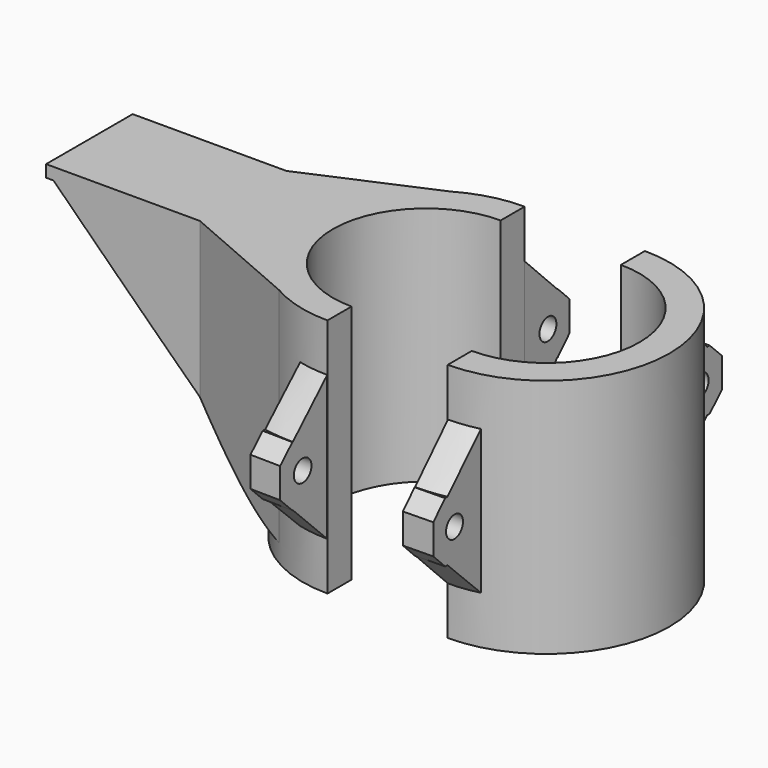
from build123d import *

# Parameters (mm, degrees)
CYLINDER002_R              = 1.8
CYLINDER002_DEPTH          = 10
CYLINDER002_PITCH_ANGLE    = 90
BOX001_W                   = 5
BOX001_H                   = 12
BOX001_DEPTH               = 10
BOX001_PLACEMENT_ANGLE     = 1
CHAMFER001_SIZE            = 2.5
CHAMFER001_PLACEMENT_ANGLE = 180
CHAMFER_SIZE               = 2.5
BOX_W                      = 61
BOX_H                      = 61
BOX_DEPTH                  = 50
CYLINDER001_R              = 15.5
CYLINDER001_DEPTH          = 50
CYLINDER_R                 = 20.5
CYLINDER_DEPTH             = 40
CHAMFER003_SIZE            = 7
CHAMFER003_PLACEMENT_ANGLE = 180
BOX002_W                   = 38
BOX002_H                   = 18
BOX002_DEPTH               = 2
CHAMFER002_SIZE            = 7
CHAMFER004_SIZE            = 35
CHAMFER005_SIZE            = 12


with BuildPart() as cilindro002:
    # Cylinder002 → Cylinder002 (new body)
    with BuildSketch(Plane.XY):
        Circle(CYLINDER002_R)
    extrude(amount=CYLINDER002_DEPTH)


with BuildPart() as cilindro002_1:
    # Cylinder002 pitch: moved
    add(cilindro002.part.rotate(Axis((0, 0, 0), (0, 1, 0)), CYLINDER002_PITCH_ANGLE))


with BuildPart() as cilindro002_2:
    # Cylinder002 placement: moved
    add(cilindro002_1.part.moved(Location((-7, 25.5, 20))))


with BuildPart() as cut002:
    # Box001 → Box001 (new body)
    with BuildSketch(Plane.XY):
        with Locations((2.5, 6)):
            Rectangle(BOX001_W, BOX001_H)
    extrude(amount=BOX001_DEPTH)


with BuildPart() as cut002_1:
    # Box001 placement: moved
    add(cut002.part.moved(Location((-5, 18, 15))).rotate(Axis((-5, 18, 15), (0, 0, 1)), BOX001_PLACEMENT_ANGLE))

    # Cut002: cut Cilindro002
    add(cilindro002_2.part, mode=Mode.SUBTRACT)


with BuildPart() as chamfer001:
    # Chamfer001 base: copy of Cut002
    add(cut002_1.part)

    # Chamfer001
    chamfer001_edges = [chamfer001.edges().sort_by_distance(p)[0] for p in [
        (-2.70981, 30.041803, 25),
        (-2.70981, 30.041803, 15),
    ]]
    chamfer(chamfer001_edges, length=CHAMFER001_SIZE)


with BuildPart() as chamfer001_1:
    # Chamfer001 placement: moved
    add(chamfer001.part.moved(Location((0, 0, 40))).rotate(Axis((0, 0, 40), (1, 0, 0)), CHAMFER001_PLACEMENT_ANGLE))


with BuildPart() as chamfer_body:
    # Chamfer base: copy of Cut002
    add(cut002_1.part)

    # Chamfer
    chamfer_edges = [chamfer_body.edges().sort_by_distance(p)[0] for p in [
        (-2.70981, 30.041803, 25),
        (-2.70981, 30.041803, 15),
    ]]
    chamfer(chamfer_edges, length=CHAMFER_SIZE)


with BuildPart() as cubo:
    # Box → Box (new body)
    with BuildSketch(Plane(origin=(0, -30.5, -5), x_dir=(1, 0, 0), z_dir=(0, 0, 1))):
        with Locations((30.5, 30.5)):
            Rectangle(BOX_W, BOX_H)
    extrude(amount=BOX_DEPTH)


with BuildPart() as cilindro001:
    # Cylinder001 → Cylinder001 (new body)
    with BuildSketch(Plane.XY.offset(-5)):
        Circle(CYLINDER001_R)
    extrude(amount=CYLINDER001_DEPTH)


with BuildPart() as cut001:
    # Cylinder → Cylinder (new body)
    with BuildSketch(Plane.XY):
        Circle(CYLINDER_R)
    extrude(amount=CYLINDER_DEPTH)

    # Cut: cut Cilindro001
    add(cilindro001.part, mode=Mode.SUBTRACT)

    # Cut001: cut Cubo
    add(cubo.part, mode=Mode.SUBTRACT)


with BuildPart() as bracket:
    # Fusion001 base: copy of Cut001
    add(cut001.part)

    # Fusion001: union Chamfer001, Chamfer body
    add(chamfer001_1.part)
    add(chamfer_body.part)

    # Chamfer003
    chamfer003_edges = [bracket.edges().sort_by_distance(p)[0] for p in [
        (-2.557091, -20.339894, 15),
        (-2.557091, -20.339894, 25),
        (-2.557091, 20.339894, 25),
        (-2.557091, 20.339894, 15),
    ]]
    chamfer(chamfer003_edges, length=CHAMFER003_SIZE)


with BuildPart() as bracket_1:
    # Chamfer003 placement: moved
    add(bracket.part.moved(Location((20, 0, 0))).rotate(Axis((20, 0, 0), (0, 0, 1)), CHAMFER003_PLACEMENT_ANGLE))


with BuildPart() as cubo002:
    # Box002 → Box002 (new body)
    with BuildSketch(Plane(origin=(-18, 9, 38), x_dir=(-1, 0, 0), z_dir=(0, 0, 1))):
        with Locations((19, 9)):
            Rectangle(BOX002_W, BOX002_H)
    extrude(amount=BOX002_DEPTH)


with BuildPart() as chamfer005:
    # Fusion base: copy of Cut001
    add(cut001.part)

    # Fusion: union Chamfer001, Chamfer body
    add(chamfer001_1.part)
    add(chamfer_body.part)

    # Chamfer002
    chamfer002_edges = [chamfer005.edges().sort_by_distance(p)[0] for p in [
        (-2.557091, -20.339894, 15),
        (-2.557091, -20.339894, 25),
        (-2.557091, 20.339894, 25),
        (-2.557091, 20.339894, 15),
    ]]
    chamfer(chamfer002_edges, length=CHAMFER002_SIZE)

    # Fusion002: union Cubo002
    add(cubo002.part)

    # Chamfer004
    chamfer004_edges = [chamfer005.edges().sort_by_distance(p)[0] for p in [
        (-20.5, 0, 38),
    ]]
    chamfer(chamfer004_edges, length=CHAMFER004_SIZE)

    # Chamfer005
    chamfer005_edges = [chamfer005.edges().sort_by_distance(p)[0] for p in [
        (-18.41874, 9, 20.5),
        (-18.41874, 9, 39),
        (-18.41874, -9, 20.5),
        (-18.41874, -9, 39),
    ]]
    chamfer(chamfer005_edges, length=CHAMFER005_SIZE)


solid = Compound([bracket_1.part, chamfer005.part])
